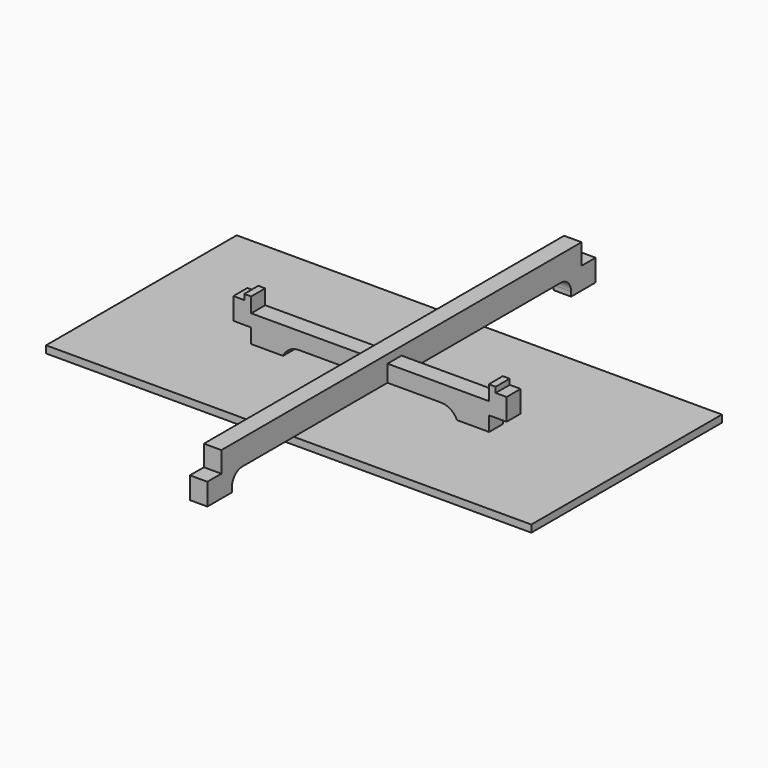
from build123d import *

# Parameters (mm, degrees)
PAD_DEPTH    = 8
PAD001_DEPTH = 8
SKETCH004_W  = 222
SKETCH004_H  = 109
PAD002_DEPTH = 3.3


with BuildPart() as body003:
    # Sketch → Pad (new body)
    with BuildSketch(Plane.YZ):
        with BuildLine():
            Line((-111, 0), (-111, 10))
            Line((-111, 10), (-103, 10))
            Line((-103, 10), (-103, 19.5))
            Line((-103, 19.5), (103, 19.5))
            Line((103, 19.5), (103, 10))
            Line((103, 10), (111, 10))
            Line((111, 10), (111, 0))
            Line((111, 0), (97, 0))
            Line((97, 0), (97, 2))
            ThreePointArc((97, 2), (95.24264, 6.242641), (91, 8))
            Line((91, 8), (-90.999979, 8))
            ThreePointArc((-90.999979, 8), (-95.242633, 6.242648), (-97, 2))
            Line((-97, 2), (-97, 0))
            Line((-97, 0), (-111, 0))
        make_face()
    extrude(amount=PAD_DEPTH)


with BuildPart() as body004:
    # Sketch001 → Pad001 (new body)
    with BuildSketch(Plane.XZ):
        with BuildLine():
            Line((-54.5, 0), (-54.5, 10))
            Line((-54.5, 10), (-62.5, 10))
            Line((-62.5, 10), (-62.5, 20))
            Line((-62.5, 20), (-57.5, 20))
            Line((-57.5, 20), (-57.5, 22.5))
            Line((-57.5, 22.5), (-54.35, 22.5))
            Line((-54.35, 22.5), (-54.35, 15.7))
            Line((-54.35, 15.7), (54.35, 15.7))
            Line((54.35, 15.7), (54.35, 22.5))
            Line((54.35, 22.5), (57.5, 22.5))
            Line((57.5, 22.5), (57.5, 20))
            Line((57.5, 20), (62.5, 20))
            Line((62.5, 20), (62.5, 10))
            Line((62.5, 10), (54.5, 10))
            Line((54.5, 10), (54.5, 0))
            Line((54.5, 0), (40.5, 0))
            ThreePointArc((40.5, 0), (38.156854, 5.656854), (32.5, 8))
            Line((-32.5, 8), (32.5, 8))
            ThreePointArc((-32.5, 8), (-38.156854, 5.656854), (-40.5, 0))
            Line((-54.5, 0), (-40.5, 0))
        make_face()
    extrude(amount=PAD001_DEPTH)


with BuildPart() as body:
    # Sketch004 → Pad002 (new body)
    with BuildSketch(Plane.XY):
        Rectangle(SKETCH004_W, SKETCH004_H)
    extrude(amount=PAD002_DEPTH)


solid = Compound([body003.part, body004.part, body.part])
